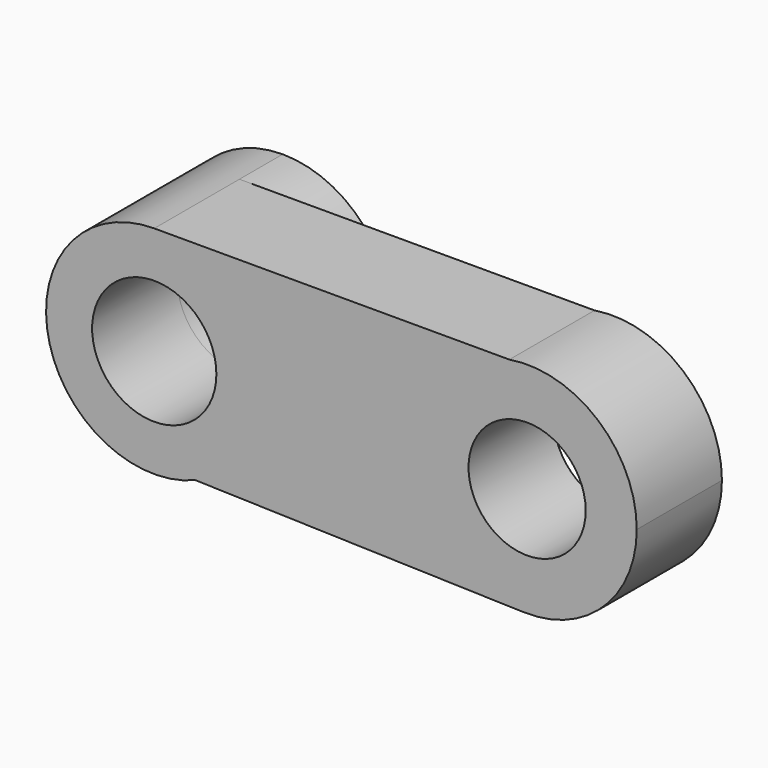
from build123d import *

# Parameters (mm, degrees)
F0_R     = 14.58596
F0_R_2   = 13.756657
F1_DEPTH = 25
F2_DEPTH = 12.7


with BuildPart() as f1:
    # F0 (on Front) → F1 (new body)
    with BuildSketch(Plane.XZ):
        with BuildLine():
            ThreePointArc((9.637534, -23.500595), (21.09447, -14.148616), (25.4, 0))
            ThreePointArc((25.4, 0), (17.960512, 17.960512), (0, 25.4))
            ThreePointArc((0, 25.4), (-24.920625, -4.911461), (9.637534, -23.500595))
        make_face()
        Circle(F0_R, mode=Mode.SUBTRACT)
        with BuildLine():
            ThreePointArc((0, 25.4), (17.960512, 17.960512), (25.4, 0))
            ThreePointArc((25.4, 0), (21.09447, -14.148616), (9.637534, -23.500595))
            Line((9.637534, -23.500595), (86.807267, -25.729542))
            ThreePointArc((86.807267, -25.729542), (61.867829, -1.722082), (83.378905, 25.4))
            Line((83.378905, 25.4), (0, 25.4))
        make_face()
        with BuildLine():
            ThreePointArc((113.290704, 0), (104.211545, 19.620625), (83.378905, 25.4))
            ThreePointArc((83.378905, 25.4), (61.867829, -1.722082), (86.807267, -25.729542))
            ThreePointArc((86.807267, -25.729542), (105.48688, -18.462), (113.290704, 0))
        make_face()
        with Locations((87.550432, 0)):
            Circle(F0_R_2, mode=Mode.SUBTRACT)
    extrude(amount=F1_DEPTH)

    # F0 (on Front) → F2 (join)
    with BuildSketch(Plane.XZ):
        with BuildLine():
            ThreePointArc((9.637534, -23.500595), (21.09447, -14.148616), (25.4, 0))
            ThreePointArc((25.4, 0), (17.960512, 17.960512), (0, 25.4))
            ThreePointArc((0, 25.4), (-24.920625, -4.911461), (9.637534, -23.500595))
        make_face()
        Circle(F0_R, mode=Mode.SUBTRACT)
    extrude(amount=-F2_DEPTH)


solid = f1.part
